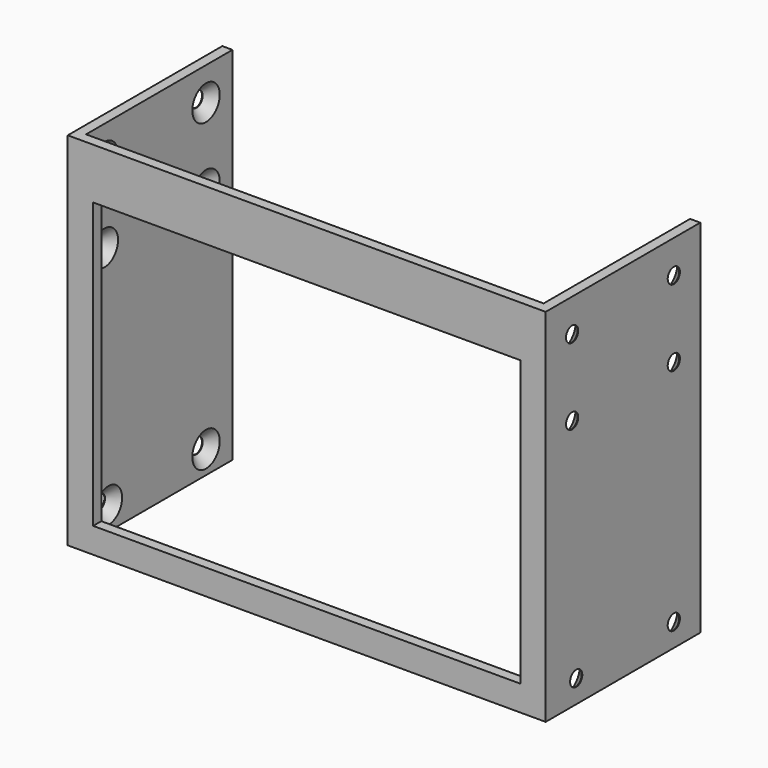
from build123d import *

# Parameters (mm, degrees)
F0_W     = 94
F0_H     = 71
F0_W_2   = 84
F0_H_2   = 56
F1_DEPTH = 1
F2_W     = 2
F2_H     = 71
F3_DEPTH = 36
F4_R     = 1.5
F5_DEPTH = 100
F6_SIZE  = 1.87


with BuildPart() as f1:
    # F0 (on Front) → F1 (new body, symmetric)
    with BuildSketch(Plane.XZ):
        Rectangle(F0_W, F0_H)
        with Locations((0, -2.5)):
            Rectangle(F0_W_2, F0_H_2, mode=Mode.SUBTRACT)
    extrude(amount=F1_DEPTH, both=True)

    # F2 (on face) → F3 (join)
    with BuildSketch(Plane(origin=(0, 1, 0), x_dir=(-1, 0, 0), z_dir=(0, 1, 0))):
        with Locations((-46, 0)):
            Rectangle(F2_W, F2_H)
        with Locations((46, 0)):
            Rectangle(F2_W, F2_H)
    extrude(amount=F3_DEPTH)

    # F4 (on face) → F5 (cut)
    with BuildSketch(Plane(origin=(-47, 0, 0), x_dir=(0, -1, 0), z_dir=(-1, 0, 0))):
        with Locations((-30.5, -31)):
            Circle(F4_R)
        with Locations((-6.5, -31)):
            Circle(F4_R)
        with Locations((-30.5, 29)):
            Circle(F4_R)
        with Locations((-5.5, 29)):
            Circle(F4_R)
        with Locations((-30.5, 14)):
            Circle(F4_R)
        with Locations((-5.5, 14)):
            Circle(F4_R)
    extrude(amount=-F5_DEPTH, mode=Mode.SUBTRACT)

    # F6
    f6_edges = [f1.edges().sort_by_distance(p)[0] for p in [
        (-45, 32, 29),
        (-45, 32, 14),
        (-45, 7, 29),
        (45, 7, 29),
        (45, 7, 14),
        (45, 32, 29),
        (45, 32, 14),
        (-45, 7, 14),
        (45, 8, -31),
        (45, 32, -31),
        (-45, 8, -31),
        (-45, 32, -31),
    ]]
    chamfer(f6_edges, length=F6_SIZE)


solid = f1.part
